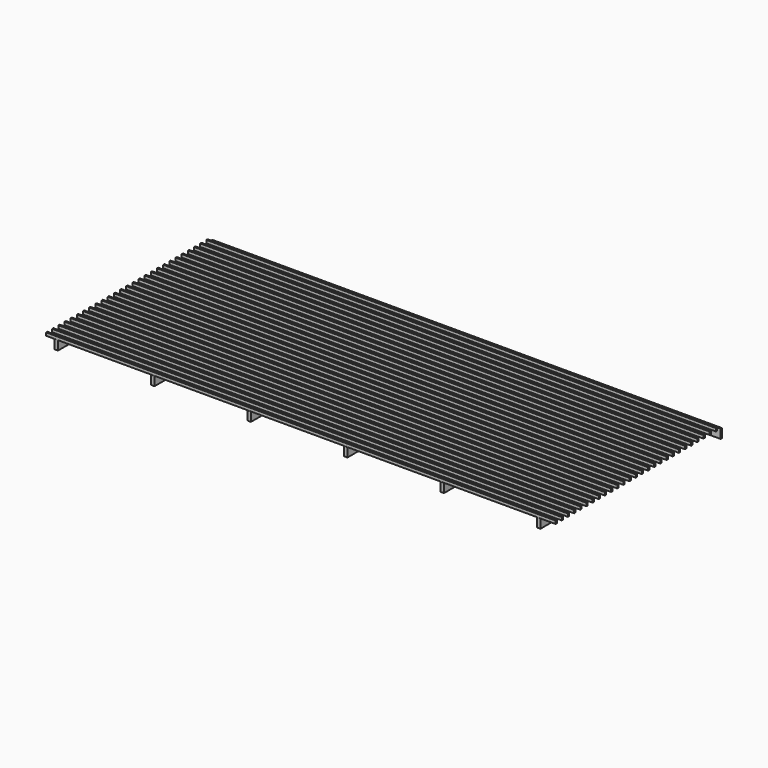
from build123d import *

# Parameters (mm, degrees)
F0_W     = 12877.8
F0_H     = 228.6
F1_DEPTH = 38.1
F2_W     = 88.9
F2_H     = 228.6
F3_DEPTH = 5219.7
F4_W     = 38.1
F4_H     = 76.2
F5_DEPTH = 12877.8


with BuildPart() as f1:
    # F0 (on Front) → F1 (new body)
    with BuildSketch(Plane.XZ):
        Rectangle(F0_W, F0_H)
    extrude(amount=-F1_DEPTH)

    # F2 (on face) → F3 (join)
    with BuildSketch(Plane.XZ):
        with Locations((-6178.55, 0)):
            Rectangle(F2_W, F2_H)
        with Locations((-3740.15, 0)):
            Rectangle(F2_W, F2_H)
        with Locations((-1301.75, 0)):
            Rectangle(F2_W, F2_H)
        with Locations((1136.65, 0)):
            Rectangle(F2_W, F2_H)
        with Locations((3575.05, 0)):
            Rectangle(F2_W, F2_H)
        with Locations((6013.45, 0)):
            Rectangle(F2_W, F2_H)
    extrude(amount=F3_DEPTH)

    # F4 (on face) → F5 (join)
    with BuildSketch(Plane.YZ.offset(6438.9)):
        with Locations((-133.35, 152.4)):
            Rectangle(F4_W, F4_H)
        with Locations((-328.0918, 152.4)):
            Rectangle(F4_W, F4_H)
        with Locations((-522.8336, 152.4)):
            Rectangle(F4_W, F4_H)
        with Locations((-717.5754, 152.4)):
            Rectangle(F4_W, F4_H)
        with Locations((-912.3172, 152.4)):
            Rectangle(F4_W, F4_H)
        with Locations((-1107.059, 152.4)):
            Rectangle(F4_W, F4_H)
        with Locations((-1301.8008, 152.4)):
            Rectangle(F4_W, F4_H)
        with Locations((-1496.5426, 152.4)):
            Rectangle(F4_W, F4_H)
        with Locations((-1691.2844, 152.4)):
            Rectangle(F4_W, F4_H)
        with Locations((-1886.0262, 152.4)):
            Rectangle(F4_W, F4_H)
        with Locations((-2080.768, 152.4)):
            Rectangle(F4_W, F4_H)
        with Locations((-2275.5098, 152.4)):
            Rectangle(F4_W, F4_H)
        with Locations((-2470.2516, 152.4)):
            Rectangle(F4_W, F4_H)
        with Locations((-2664.9934, 152.4)):
            Rectangle(F4_W, F4_H)
        with Locations((-2859.7352, 152.4)):
            Rectangle(F4_W, F4_H)
        with Locations((-3054.477, 152.4)):
            Rectangle(F4_W, F4_H)
        with Locations((-3249.2188, 152.4)):
            Rectangle(F4_W, F4_H)
        with Locations((-3443.9606, 152.4)):
            Rectangle(F4_W, F4_H)
        with Locations((-3638.7024, 152.4)):
            Rectangle(F4_W, F4_H)
        with Locations((-3833.4442, 152.4)):
            Rectangle(F4_W, F4_H)
        with Locations((-4028.186, 152.4)):
            Rectangle(F4_W, F4_H)
        with Locations((-4222.9278, 152.4)):
            Rectangle(F4_W, F4_H)
        with Locations((-4417.6696, 152.4)):
            Rectangle(F4_W, F4_H)
        with Locations((-4612.4114, 152.4)):
            Rectangle(F4_W, F4_H)
        with Locations((-4807.1532, 152.4)):
            Rectangle(F4_W, F4_H)
        with Locations((-5001.895, 152.4)):
            Rectangle(F4_W, F4_H)
        with Locations((-5196.6368, 152.4)):
            Rectangle(F4_W, F4_H)
    extrude(amount=-F5_DEPTH)


solid = f1.part
